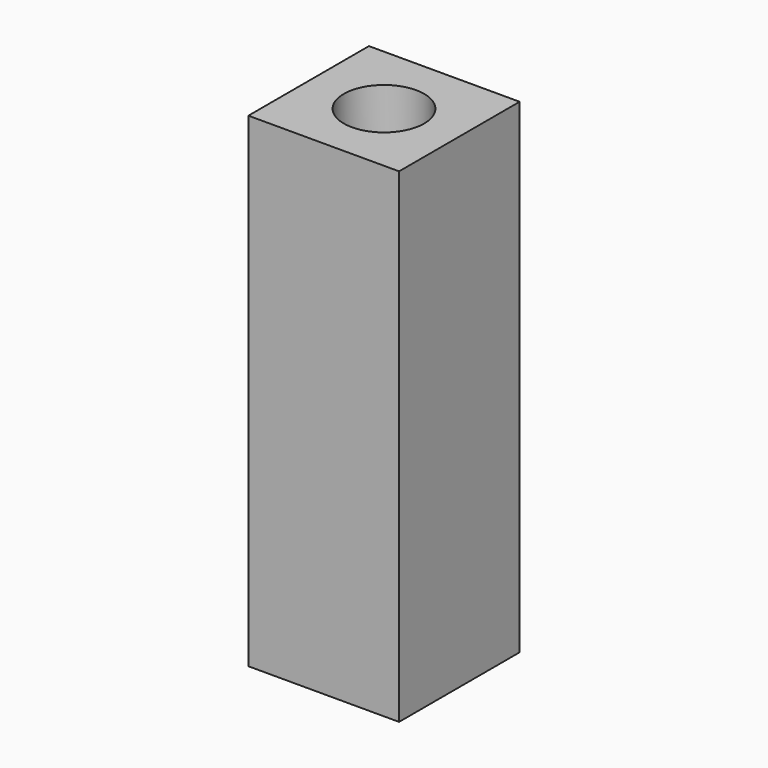
from build123d import *

# Parameters (mm, degrees)
SKETCH095_W      = 6
SKETCH095_H      = 6
EXTRUDE033_DEPTH = 19.3
SKETCH096_R      = 1.6
HOLE019_DEPTH    = 2.5
HOLE019_TIPS_R   = 1.6


with BuildPart() as part:
    # Sketch095 (on Face6 of BaseFeature009) → Extrude033 (new body)
    with BuildSketch(Plane.XY.offset(2)):
        with Locations((5, -104.299998)):
            Rectangle(SKETCH095_W, SKETCH095_H)
    extrude(amount=EXTRUDE033_DEPTH)

    # Sketch096 (on Face6 of Extrude033) → Hole019 (cut)
    with BuildSketch(Plane.XY.offset(21.3)):
        with Locations((5, -104.300002)):
            Circle(SKETCH096_R)
    extrude(amount=-HOLE019_DEPTH, mode=Mode.SUBTRACT)

    # Hole019 tips → Hole019 tip 1 section 0
    with BuildSketch(Plane.XY.offset(18.8), mode=Mode.PRIVATE) as hole019_tip_1_s0:
        with Locations((5, -104.300002)):
            Circle(HOLE019_TIPS_R)
    loft([hole019_tip_1_s0.sketch, Vertex(5, -104.300002, 17.838623)], mode=Mode.SUBTRACT)


solid = part.part
